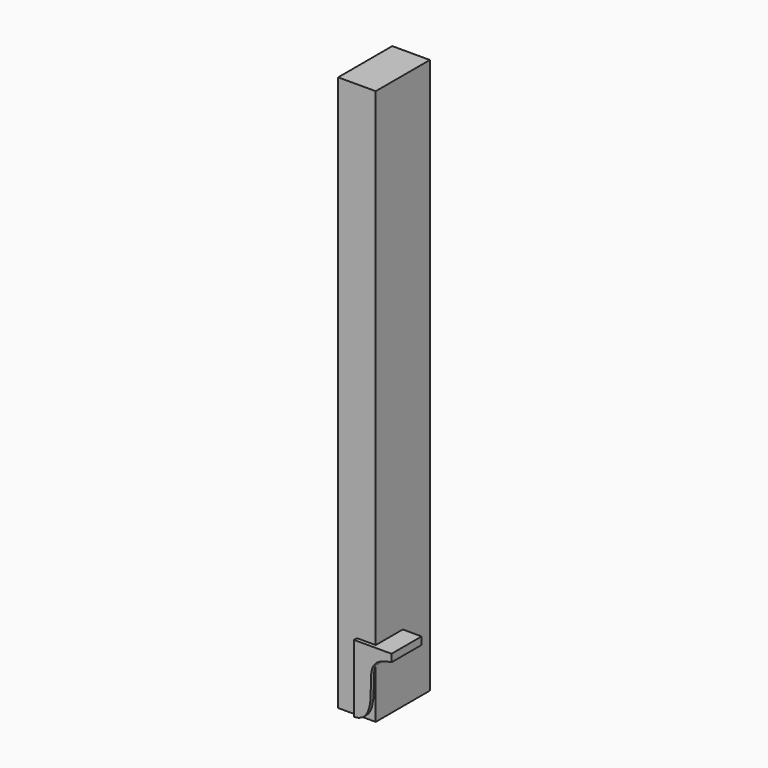
from build123d import *

# Parameters (mm, degrees)
F0_W     = 100
F0_H     = 180
F1_DEPTH = 1000
F2_DEPTH = 675
F3_DEPTH = 1477.5
F5_DEPTH = 100


with BuildPart() as f1:
    # F0 (on Top) → F1 (new body)
    with BuildSketch(Plane.XY):
        Rectangle(F0_W, F0_H)
    extrude(amount=F1_DEPTH)


with BuildPart() as f2:
    # F0 (on Top) → F2 (new body)
    with BuildSketch(Plane.XY):
        Rectangle(F0_W, F0_H)
    extrude(amount=F2_DEPTH)


with BuildPart() as f3:
    # F0 (on Top) → F3 (new body)
    with BuildSketch(Plane.XY):
        Rectangle(F0_W, F0_H)
    extrude(amount=F3_DEPTH)


with BuildPart() as f5:
    # F4 (on Front) → F5 (new body)
    with BuildSketch(Plane.XZ):
        with BuildLine():
            Line((0, 180), (0, 0))
            add(Edge.make_bspline(
                [(0, 0), (45.1004018503, 0), (45.1004018503, 98.9498016724), (45.1004018503, 152.7065502693), (100, 160)],
                knots=[0, 0, 0, 0, 0.5154495578, 1, 1, 1, 1], degree=3))
            Line((100, 160), (100, 180))
            Line((100, 180), (0, 180))
        make_face()
    extrude(amount=F5_DEPTH)


solid = Compound([f1.part, f2.part, f3.part, f5.part])
